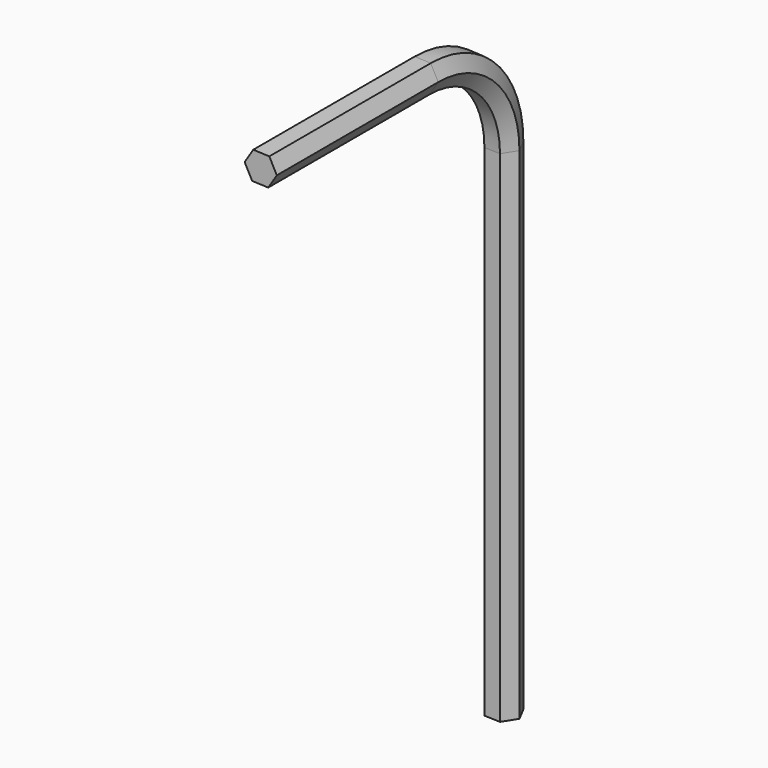
from build123d import *


with BuildPart() as f2:
    # F2: sweep along a path in F1
    with BuildLine(Plane.YZ) as f2_path:
        Line((0, 0), (0, 62.177598))
        ThreePointArc((0, 62.177598), (-3.719744, 71.157854), (-12.7, 74.877598))
        Line((-12.7, 74.877598), (-37.777253, 74.877598))
    # F0 (on Top) → F2 (sweep)
    with BuildSketch(Plane.XY):
        Polygon((-1.998463, 0.078399), (-1.067127, -1.69152), (0.931336, -1.769919), (1.998463, -0.078399), (1.067127, 1.69152), (-0.931336, 1.769919), align=None)
    sweep(path=f2_path.line)


solid = f2.part
